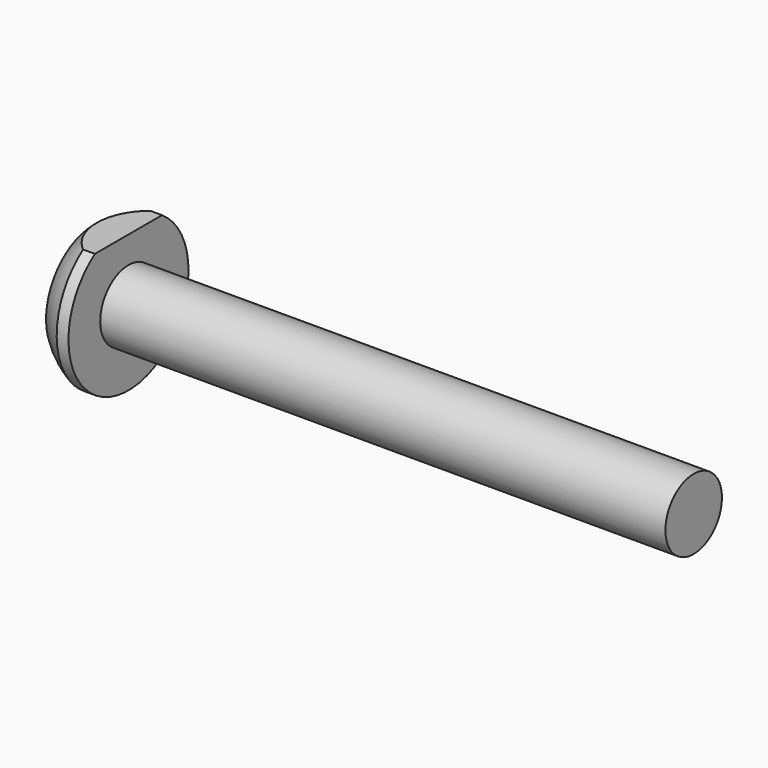
from build123d import *

# Parameters (mm, degrees)
F3_DEPTH = 25.4


with BuildPart() as f1:
    # F0 (on Front) → F1 (revolve)
    with BuildSketch(Plane.XZ):
        with BuildLine():
            Line((-57.1763723386, 0), (-54.0013723386, 0))
            Line((-54.0013723386, 0), (-54.0013723386, 7.9375))
            Line((-54.0013723386, 7.9375), (-54.0013723386, 10.1147445013))
            ThreePointArc((-54.0013723386, 10.1147445013), (-55.6838758168, 9.1646625215), (-57.1763723386, 7.9375))
            Line((-57.1763723386, 7.9375), (-57.1763723386, 0))
        make_face()
        Polygon((-54.0013723386, 0), (-52.4138723386, 0), (23.7861276614, 0), (23.7861276614, 4.7625), (-52.4138723386, 4.7625), (-52.4138723386, 7.9375), (-52.4138723386, 10.1147445013), (-54.0013723386, 10.1147445013), (-54.0013723386, 7.9375), align=None)
    revolve(axis=Axis((-14.3138723386, 0, 0), (1, 0, 0)))

    # F2 (on face) → F3 (cut)
    with BuildSketch(Plane.YZ.offset(-52.4138723386)):
        with BuildLine():
            ThreePointArc((5.6533149467, 8.3873766125), (0, 10.1147445013), (-5.6533149467, 8.3873766125))
            Line((-5.6533149467, 8.3873766125), (5.6533149467, 8.3873766125))
        make_face()
    extrude(amount=-F3_DEPTH, mode=Mode.SUBTRACT)


solid = f1.part
